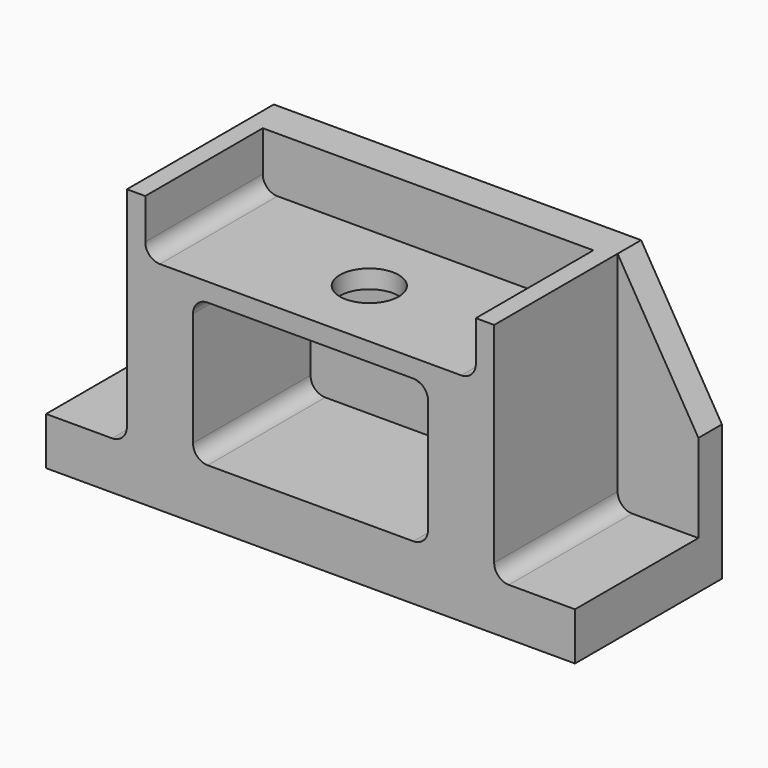
from build123d import *

# Parameters (mm, degrees)
F0_W      = 1000
F0_H      = 740
F1_DEPTH  = 500
F3_DEPTH  = 400
F4_R      = 80
F5_DEPTH  = 100.001
F7_DEPTH  = 400
F8_W      = 500
F8_H      = 130
F9_DEPTH  = 220
F10_W     = 500
F10_H     = 130
F11_DEPTH = 220
F12_W     = 500
F12_H     = 610
F13_DEPTH = 220
F15_DEPTH = 500.001
F17_DEPTH = 420
F18_W     = 500
F18_H     = 610
F19_DEPTH = 220
F21_DEPTH = 500.001
F23_DEPTH = 420
F24_R     = 80
F25_DEPTH = 50
F26_R     = 40


with BuildPart() as f1:
    # F0 (on Front) → F1 (new body)
    with BuildSketch(Plane.XZ):
        Rectangle(F0_W, F0_H)
    extrude(amount=F1_DEPTH)

    # F2 (on face) → F3 (cut)
    with BuildSketch(Plane.XZ.offset(500)):
        with BuildLine():
            ThreePointArc((320, 130), (308.284271, 158.284271), (280, 170))
            Line((280, 170), (-280, 170))
            ThreePointArc((-280, 170), (-308.284271, 158.284271), (-320, 130))
            Line((-320, 130), (-320, -180))
            ThreePointArc((-320, -180), (-308.284271, -208.284271), (-280, -220))
            Line((-280, -220), (280, -220))
            ThreePointArc((280, -220), (308.284271, -208.284271), (320, -180))
            Line((320, -180), (320, 130))
        make_face()
    extrude(amount=-F3_DEPTH, mode=Mode.SUBTRACT)

    # F4 (on face) → F5 (cut, through all)
    with BuildSketch(Plane.XZ.offset(100)):
        with Locations((0, -25)):
            Circle(F4_R)
    extrude(amount=-F5_DEPTH, mode=Mode.SUBTRACT)

    # F6 (on face) → F7 (cut)
    with BuildSketch(Plane.XZ.offset(500)):
        with BuildLine():
            Line((450, 260), (450, 520))
            Line((450, 520), (-450, 520))
            Line((-450, 520), (-450, 260))
            ThreePointArc((-450, 260), (-438.284271, 231.715729), (-410, 220))
            Line((-410, 220), (410, 220))
            ThreePointArc((410, 220), (438.284271, 231.715729), (450, 260))
        make_face()
    extrude(amount=-F7_DEPTH, mode=Mode.SUBTRACT)

    # F8 (on face) → F9 (join)
    with BuildSketch(Plane.YZ.offset(500)):
        with Locations((-250, -305)):
            Rectangle(F8_W, F8_H)
    extrude(amount=F9_DEPTH)

    # F10 (on face) → F11 (join)
    with BuildSketch(Plane(origin=(-500, 0, 0), x_dir=(0, -1, 0), z_dir=(-1, 0, 0))):
        with Locations((250, -305)):
            Rectangle(F10_W, F10_H)
    extrude(amount=F11_DEPTH)

    # F12 (on face) → F13 (join)
    with BuildSketch(Plane(origin=(-500, 0, 0), x_dir=(0, -1, 0), z_dir=(-1, 0, 0))):
        with Locations((250, 65)):
            Rectangle(F12_W, F12_H)
    extrude(amount=F13_DEPTH)

    # F14 (on face) → F15 (cut, through all)
    with BuildSketch(Plane.XZ.offset(500)):
        Polygon((-720, 370), (-720, 0), (-500, 370), align=None)
    extrude(amount=-F15_DEPTH, mode=Mode.SUBTRACT)

    # F16 (on face) → F17 (cut)
    with BuildSketch(Plane.XZ.offset(500)):
        Polygon((-500, -240), (-500, 370), (-720, 0), (-720, -240), align=None)
    extrude(amount=-F17_DEPTH, mode=Mode.SUBTRACT)

    # F18 (on face) → F19 (join)
    with BuildSketch(Plane.YZ.offset(500)):
        with Locations((-250, 65)):
            Rectangle(F18_W, F18_H)
    extrude(amount=F19_DEPTH)

    # F20 (on face) → F21 (cut, through all)
    with BuildSketch(Plane.XZ.offset(500)):
        Polygon((720, 370), (500, 370), (720, 0), align=None)
    extrude(amount=-F21_DEPTH, mode=Mode.SUBTRACT)

    # F22 (on face) → F23 (cut)
    with BuildSketch(Plane.XZ.offset(500)):
        Polygon((720, 0), (500, 370), (500, -240), (720, -240), align=None)
    extrude(amount=-F23_DEPTH, mode=Mode.SUBTRACT)

    # F24 (on face) → F25 (cut)
    with BuildSketch(Plane.XY.offset(220)):
        with Locations((0, -300)):
            Circle(F24_R)
    extrude(amount=-F25_DEPTH, mode=Mode.SUBTRACT)

    # F26
    f26_edges = [f1.edges().sort_by_distance(p)[0] for p in [
        (-500, -290, -240),
        (500, -290, -240),
    ]]
    fillet(f26_edges, radius=F26_R)


solid = f1.part
